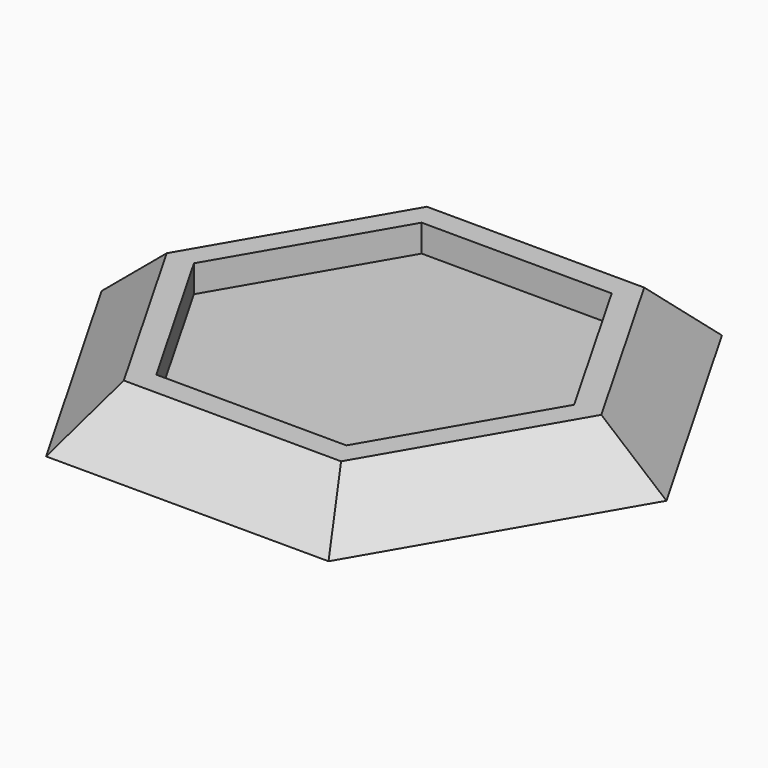
from build123d import *

# Parameters (mm, degrees)
F5_DEPTH = 2


with BuildPart() as f3:
    # F0 (on Top) → F3 section 0
    with BuildSketch(Plane.XY):
        Polygon((20.784545, -0.051731), (10.437073, 17.974079), (-10.347472, 18.02581), (-20.784545, 0.051731), (-10.437073, -17.974079), (10.347472, -18.02581), align=None)
    # F2 (on offset) → F3 section 1
    with BuildSketch(Plane.XY.offset(4)):
        Polygon((7.955158, -13.8822), (15.999916, -0.051731), (8.044759, 13.830468), (-7.955158, 13.8822), (-15.999916, 0.051731), (-8.044759, -13.830468), align=None)
    loft()

    # F4 (on face) → F5 (cut)
    with BuildSketch(Plane.XY.offset(4)):
        Polygon((6.955152, -12.150139), (13.999904, -0.051731), (7.044753, 12.098407), (-6.955152, 12.150139), (-13.999904, 0.051731), (-7.044753, -12.098407), align=None)
    extrude(amount=-F5_DEPTH, mode=Mode.SUBTRACT)


solid = f3.part
